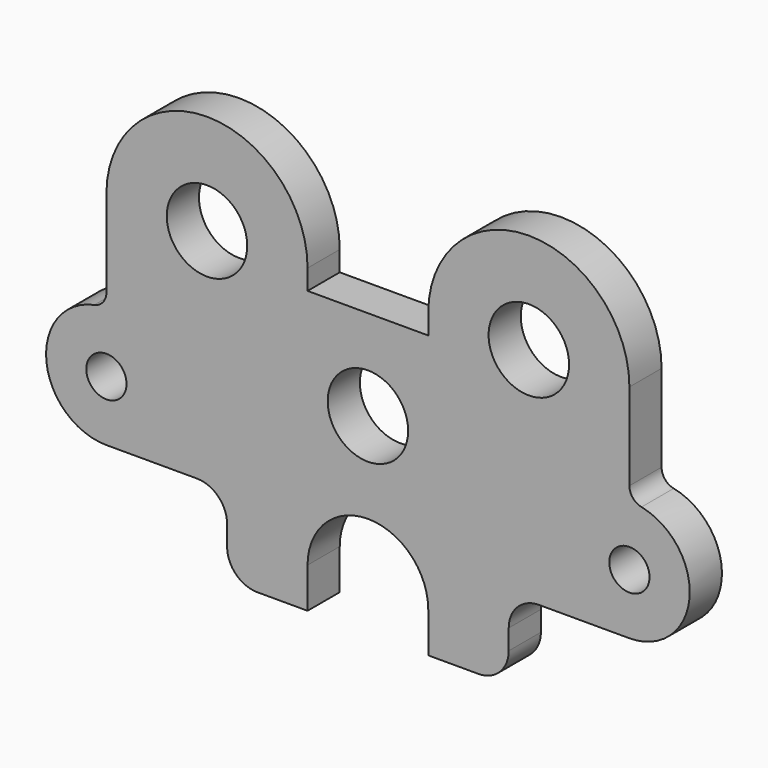
from build123d import *

# Parameters (mm, degrees)
F0_R     = 7.9375
F0_R_2   = 12.7
F0_R_3   = 6.35
F1_DEPTH = 6.35


with BuildPart() as f1:
    # F0 (on Front) → F1 (new body, symmetric)
    with BuildSketch(Plane.XZ):
        with BuildLine():
            Line((19.05, 34.925), (19.05, 28.575))
            Line((19.05, 28.575), (-19.05, 28.575))
            Line((-19.05, 28.575), (-19.05, 34.925))
            ThreePointArc((-19.05, 34.925), (-50.8, 66.675), (-82.55, 34.925))
            Line((-82.55, 34.925), (-82.55, 7.45639))
            ThreePointArc((-82.55, 7.45639), (-83.623483, 4.44432), (-86.36, 2.790112))
            ThreePointArc((-86.36, 2.790112), (-101.503534, -17.789696), (-82.55, -34.925))
            Line((-82.55, -34.925), (-53.975, -34.925))
            ThreePointArc((-53.975, -34.925), (-47.239808, -37.714808), (-44.45, -44.45))
            Line((-44.45, -44.45), (-44.45, -50.8))
            ThreePointArc((-44.45, -50.8), (-41.660192, -57.535192), (-34.925, -60.325))
            Line((-34.925, -60.325), (-19.05, -60.325))
            Line((-19.05, -60.325), (-19.05, -47.625))
            ThreePointArc((-19.05, -47.625), (0, -28.575), (19.05, -47.625))
            Line((19.05, -47.625), (19.05, -60.325))
            Line((19.05, -60.325), (34.925, -60.325))
            ThreePointArc((34.925, -60.325), (41.660192, -57.535192), (44.45, -50.8))
            Line((44.45, -50.8), (44.45, -44.45))
            ThreePointArc((44.45, -44.45), (47.239808, -37.714808), (53.975, -34.925))
            Line((53.975, -34.925), (82.55, -34.925))
            ThreePointArc((82.55, -34.925), (101.503534, -17.789696), (86.36, 2.790112))
            ThreePointArc((86.36, 2.790112), (83.623483, 4.44432), (82.55, 7.45639))
            Line((82.55, 7.45639), (82.55, 34.925))
            ThreePointArc((82.55, 34.925), (50.8, 66.675), (19.05, 34.925))
        make_face()
        with Locations((-82.55, -15.875)):
            Circle(F0_R, mode=Mode.SUBTRACT)
        Circle(F0_R_2, mode=Mode.SUBTRACT)
        with Locations((82.55, -15.875)):
            Circle(F0_R, mode=Mode.SUBTRACT)
        with Locations((-50.8, 34.925)):
            Circle(F0_R_2, mode=Mode.SUBTRACT)
        with Locations((50.8, 34.925)):
            Circle(F0_R_2, mode=Mode.SUBTRACT)
        with Locations((82.55, -15.875)):
            Circle(F0_R)
        with Locations((82.55, -15.875)):
            Circle(F0_R_3, mode=Mode.SUBTRACT)
        with Locations((-82.55, -15.875)):
            Circle(F0_R)
        with Locations((-82.55, -15.875)):
            Circle(F0_R_3, mode=Mode.SUBTRACT)
    extrude(amount=F1_DEPTH, both=True)


solid = f1.part
